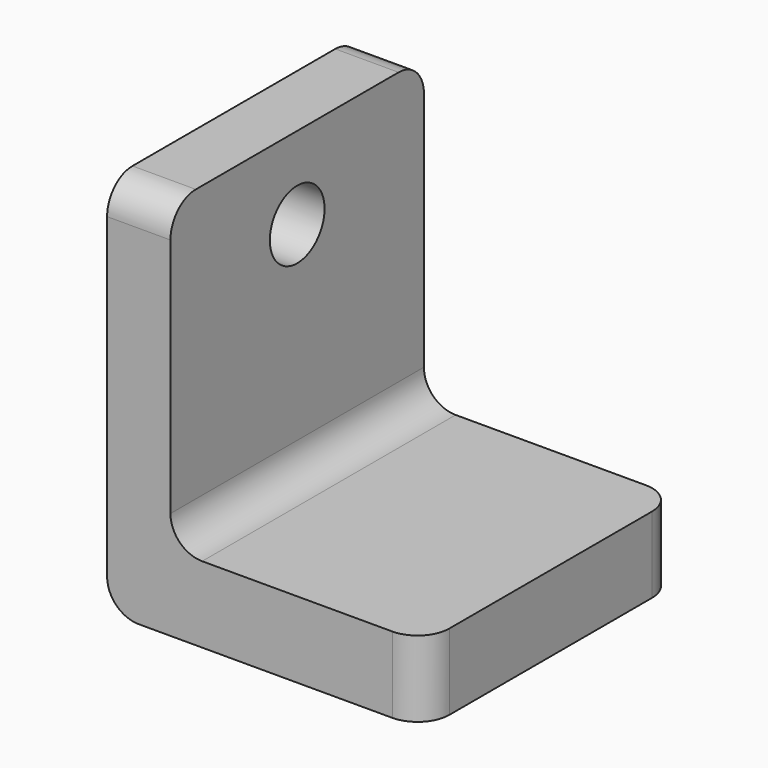
from build123d import *

# Parameters (mm, degrees)
F1_DEPTH = 25
F3_D     = 10.8
F4_R     = 5


with BuildPart() as f1:
    # F0 (on Front) → F1 (new body, symmetric)
    with BuildSketch(Plane.XZ):
        Polygon((-25.943926, 37.934126), (-35.943926, 37.934126), (-35.943926, -22.065874), (14.056074, -22.065874), (14.056074, -10.065874), (-25.943926, -10.065874), align=None)
    extrude(amount=F1_DEPTH, both=True)

    # F3 (through all)
    with Locations(Plane.YZ.offset(-25.943926)):
        with Locations((0, 24.934126)):
            Hole(F3_D / 2)

    # F4
    f4_edges = [f1.edges().sort_by_distance(p)[0] for p in [
        (-30.943926, -25, 37.934126),
        (-30.943926, 25, 37.934126),
        (14.056074, -25, -16.065874),
        (14.056074, 25, -16.065874),
        (-35.943926, 0, -22.065874),
        (-25.943926, 0, -10.065874),
    ]]
    fillet(f4_edges, radius=F4_R)


solid = f1.part
